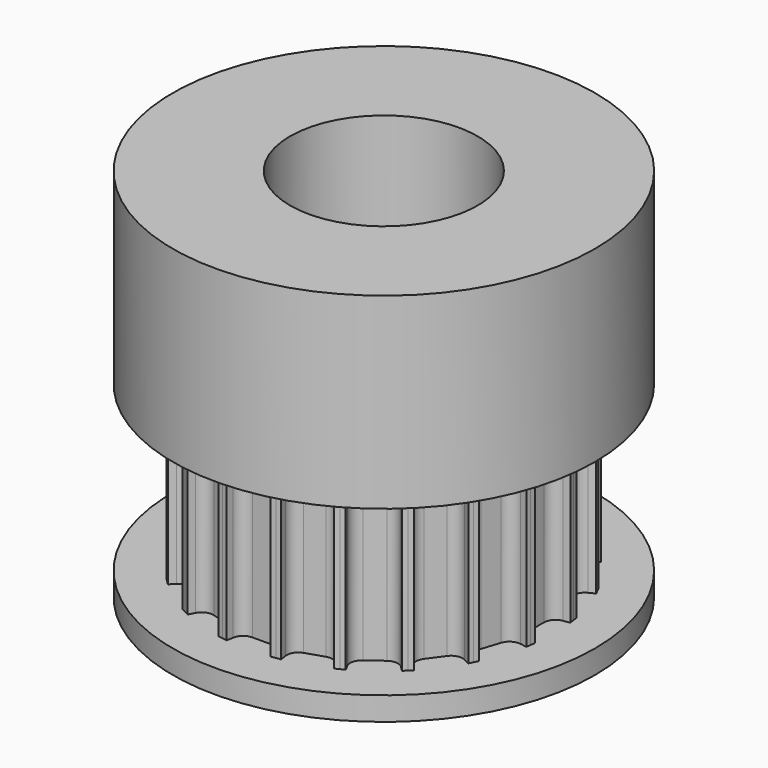
from build123d import *

# Parameters (mm, degrees)
F1_DEPTH = 3.5
F2_COUNT = 20
F3_R     = 9
F4_DEPTH = 1
F5_R     = 9
F6_DEPTH = 8
F8_D     = 8


with BuildPart() as f1:
    # F0 (on Top) → F1 (new body, symmetric)
    with BuildSketch(Plane.XY):
        with BuildLine():
            Line((-1.1357142162, 7.1706173527), (0, 0))
            Line((0, 0), (1.1357142162, 7.1706173527))
            Line((1.1357142162, 7.1706173527), (0.9381765481, 7.2019042457))
            Line((0.9381765481, 7.2019042457), (0.9377455173, 7.1991828248))
            Line((0.9377455173, 7.1991828248), (0.8938096645, 6.9217827675))
            ThreePointArc((0.8938096645, 6.9217827675), (0.7246895184, 6.6197970172), (0.3999654942, 6.5))
            Line((0.3999654942, 6.5), (0, 6.5))
            Line((0, 6.5), (-0.3999654942, 6.5))
            ThreePointArc((-0.3999654942, 6.5), (-0.7246895184, 6.6197970172), (-0.8938096645, 6.9217827675))
            Line((-0.8938096645, 6.9217827675), (-0.9381765481, 7.2019042457))
            Line((-0.9381765481, 7.2019042457), (-1.1357142162, 7.1706173527))
        make_face()
    extrude(amount=F1_DEPTH, both=True)

    # F2: F1 ×20 about axis
    f2_axis = Axis((0, 0, 0), (0, 0, -1))


with BuildPart() as f1_1:
    add(f1.part)
    for i in range(1, F2_COUNT):
        add(f1.part.rotate(f2_axis, i * 360 / F2_COUNT))

    # F3 (on face) → F4 (join)
    with BuildSketch(Plane(origin=(0, 0, -3.5), x_dir=(1, 0, 0), z_dir=(0, 0, -1))):
        Circle(F3_R)
        with BuildLine():
            Line((-0.9381765481, -7.2019042457), (-1.3332518843, -7.1393304597))
            Line((-1.3332518843, -7.1393304597), (-1.2888850008, -6.8592089815))
            ThreePointArc((-1.2888850008, -6.8592089815), (-1.3564090889, -6.5197424666), (-1.6282206739, -6.3054634908))
            Line((-1.6282206739, -6.3054634908), (-2.389000253, -6.058271221))
            ThreePointArc((-2.389000253, -6.058271221), (-2.7348504664, -6.0718597129), (-2.9890120123, -6.3068042293))
            Line((-2.9890120123, -6.3068042293), (-3.1177697233, -6.5595054656))
            Line((-3.1177697233, -6.5595054656), (-3.4741723329, -6.3779092657))
            Line((-3.4741723329, -6.3779092657), (-3.345414622, -6.1252080294))
            ThreePointArc((-3.345414622, -6.1252080294), (-3.3047329239, -5.7814900976), (-3.4970252579, -5.4937042824))
            Line((-3.4970252579, -5.4937042824), (-4.1441830219, -5.0235166445))
            ThreePointArc((-4.1441830219, -5.0235166445), (-4.4773051959, -4.9295664748), (-4.7916290386, -5.0744717511))
            Line((-4.7916290386, -5.0744717511), (-4.9921738752, -5.2750165877))
            Line((-4.9921738752, -5.2750165877), (-5.2750165877, -4.9921738752))
            Line((-5.2750165877, -4.9921738752), (-5.0744717511, -4.7916290386))
            ThreePointArc((-5.0744717511, -4.7916290386), (-4.9295664748, -4.4773051959), (-5.0235166445, -4.1441830219))
            Line((-5.0235166445, -4.1441830219), (-5.4937042824, -3.4970252579))
            ThreePointArc((-5.4937042824, -3.4970252579), (-5.7814900976, -3.3047329239), (-6.1252080294, -3.345414622))
            Line((-6.1252080294, -3.345414622), (-6.3779092657, -3.4741723329))
            Line((-6.3779092657, -3.4741723329), (-6.5595054656, -3.1177697233))
            Line((-6.5595054656, -3.1177697233), (-6.3068042293, -2.9890120123))
            ThreePointArc((-6.3068042293, -2.9890120123), (-6.0718597129, -2.7348504664), (-6.058271221, -2.389000253))
            Line((-6.058271221, -2.389000253), (-6.3054634908, -1.6282206739))
            ThreePointArc((-6.3054634908, -1.6282206739), (-6.5197424666, -1.3564090889), (-6.8592089815, -1.2888850008))
            Line((-6.8592089815, -1.2888850008), (-7.1393304597, -1.3332518843))
            Line((-7.1393304597, -1.3332518843), (-7.2019042457, -0.9381765481))
            Line((-7.2019042457, -0.9381765481), (-6.9217827675, -0.8938096645))
            ThreePointArc((-6.9217827675, -0.8938096645), (-6.6197970172, -0.7246895184), (-6.5, -0.3999654942))
            Line((-6.5, -0.3999654942), (-6.5, 0.3999654942))
            ThreePointArc((-6.5, 0.3999654942), (-6.6197970172, 0.7246895184), (-6.9217827675, 0.8938096645))
            Line((-6.9217827675, 0.8938096645), (-7.2019042457, 0.9381765481))
            Line((-7.2019042457, 0.9381765481), (-7.1393304597, 1.3332518843))
            Line((-7.1393304597, 1.3332518843), (-6.8592089815, 1.2888850008))
            ThreePointArc((-6.8592089815, 1.2888850008), (-6.5197424666, 1.3564090889), (-6.3054634908, 1.6282206739))
            Line((-6.3054634908, 1.6282206739), (-6.058271221, 2.389000253))
            ThreePointArc((-6.058271221, 2.389000253), (-6.0718597129, 2.7348504664), (-6.3068042293, 2.9890120123))
            Line((-6.3068042293, 2.9890120123), (-6.5595054656, 3.1177697233))
            Line((-6.5595054656, 3.1177697233), (-6.3779092657, 3.4741723329))
            Line((-6.3779092657, 3.4741723329), (-6.1252080294, 3.345414622))
            ThreePointArc((-6.1252080294, 3.345414622), (-5.7814900976, 3.3047329239), (-5.4937042824, 3.4970252579))
            Line((-5.4937042824, 3.4970252579), (-5.0235166445, 4.1441830219))
            ThreePointArc((-5.0235166445, 4.1441830219), (-4.9295664748, 4.4773051959), (-5.0744717511, 4.7916290386))
            Line((-5.0744717511, 4.7916290386), (-5.2750165877, 4.9921738752))
            Line((-5.2750165877, 4.9921738752), (-4.9921738752, 5.2750165877))
            Line((-4.9921738752, 5.2750165877), (-4.7916290386, 5.0744717511))
            ThreePointArc((-4.7916290386, 5.0744717511), (-4.4773051959, 4.9295664748), (-4.1441830219, 5.0235166445))
            Line((-4.1441830219, 5.0235166445), (-3.4970252579, 5.4937042824))
            ThreePointArc((-3.4970252579, 5.4937042824), (-3.3047329239, 5.7814900976), (-3.345414622, 6.1252080294))
            Line((-3.345414622, 6.1252080294), (-3.4741723329, 6.3779092657))
            Line((-3.4741723329, 6.3779092657), (-3.1177697233, 6.5595054656))
            Line((-3.1177697233, 6.5595054656), (-2.9890120123, 6.3068042293))
            ThreePointArc((-2.9890120123, 6.3068042293), (-2.7348504664, 6.0718597129), (-2.389000253, 6.058271221))
            Line((-2.389000253, 6.058271221), (-1.6282206739, 6.3054634908))
            ThreePointArc((-1.6282206739, 6.3054634908), (-1.3564090889, 6.5197424666), (-1.2888850008, 6.8592089815))
            Line((-1.2888850008, 6.8592089815), (-1.3332518843, 7.1393304597))
            Line((-1.3332518843, 7.1393304597), (-0.9381765481, 7.2019042457))
            Line((-0.9381765481, 7.2019042457), (-0.8938096645, 6.9217827675))
            ThreePointArc((-0.8938096645, 6.9217827675), (-0.7246895184, 6.6197970172), (-0.3999654942, 6.5))
            Line((-0.3999654942, 6.5), (0.3999654942, 6.5))
            ThreePointArc((0.3999654942, 6.5), (0.7246895184, 6.6197970172), (0.8938096645, 6.9217827675))
            Line((0.8938096645, 6.9217827675), (0.9381765481, 7.2019042457))
            Line((0.9381765481, 7.2019042457), (1.3332518843, 7.1393304597))
            Line((1.3332518843, 7.1393304597), (1.2888850008, 6.8592089815))
            ThreePointArc((1.2888850008, 6.8592089815), (1.3564090889, 6.5197424666), (1.6282206739, 6.3054634908))
            Line((1.6282206739, 6.3054634908), (2.389000253, 6.058271221))
            ThreePointArc((2.389000253, 6.058271221), (2.7348504664, 6.0718597129), (2.9890120123, 6.3068042293))
            Line((2.9890120123, 6.3068042293), (3.1177697233, 6.5595054656))
            Line((3.1177697233, 6.5595054656), (3.4741723329, 6.3779092657))
            Line((3.4741723329, 6.3779092657), (3.345414622, 6.1252080294))
            ThreePointArc((3.345414622, 6.1252080294), (3.3047329239, 5.7814900976), (3.4970252579, 5.4937042824))
            Line((3.4970252579, 5.4937042824), (4.1441830219, 5.0235166445))
            ThreePointArc((4.1441830219, 5.0235166445), (4.4773051959, 4.9295664748), (4.7916290386, 5.0744717511))
            Line((4.7916290386, 5.0744717511), (4.9921738752, 5.2750165877))
            Line((4.9921738752, 5.2750165877), (5.2750165877, 4.9921738752))
            Line((5.2750165877, 4.9921738752), (5.0744717511, 4.7916290386))
            ThreePointArc((5.0744717511, 4.7916290386), (4.9295664748, 4.4773051959), (5.0235166445, 4.1441830219))
            Line((5.0235166445, 4.1441830219), (5.4937042824, 3.4970252579))
            ThreePointArc((5.4937042824, 3.4970252579), (5.7814900976, 3.3047329239), (6.1252080294, 3.345414622))
            Line((6.1252080294, 3.345414622), (6.3779092657, 3.4741723329))
            Line((6.3779092657, 3.4741723329), (6.5595054656, 3.1177697233))
            Line((6.5595054656, 3.1177697233), (6.3068042293, 2.9890120123))
            ThreePointArc((6.3068042293, 2.9890120123), (6.0718597129, 2.7348504664), (6.058271221, 2.389000253))
            Line((6.058271221, 2.389000253), (6.3054634908, 1.6282206739))
            ThreePointArc((6.3054634908, 1.6282206739), (6.5197424666, 1.3564090889), (6.8592089815, 1.2888850008))
            Line((6.8592089815, 1.2888850008), (7.1393304597, 1.3332518843))
            Line((7.1393304597, 1.3332518843), (7.2019042457, 0.9381765481))
            Line((7.2019042457, 0.9381765481), (6.9217827675, 0.8938096645))
            ThreePointArc((6.9217827675, 0.8938096645), (6.6197970172, 0.7246895184), (6.5, 0.3999654942))
            Line((6.5, 0.3999654942), (6.5, -0.3999654942))
            ThreePointArc((6.5, -0.3999654942), (6.6197970172, -0.7246895184), (6.9217827675, -0.8938096645))
            Line((6.9217827675, -0.8938096645), (7.2019042457, -0.9381765481))
            Line((7.2019042457, -0.9381765481), (7.1393304597, -1.3332518843))
            Line((7.1393304597, -1.3332518843), (6.8592089815, -1.2888850008))
            ThreePointArc((6.8592089815, -1.2888850008), (6.5197424666, -1.3564090889), (6.3054634908, -1.6282206739))
            Line((6.3054634908, -1.6282206739), (6.058271221, -2.389000253))
            ThreePointArc((6.058271221, -2.389000253), (6.0718597129, -2.7348504664), (6.3068042293, -2.9890120123))
            Line((6.3068042293, -2.9890120123), (6.5595054656, -3.1177697233))
            Line((6.5595054656, -3.1177697233), (6.3779092657, -3.4741723329))
            Line((6.3779092657, -3.4741723329), (6.1252080294, -3.345414622))
            ThreePointArc((6.1252080294, -3.345414622), (5.7814900976, -3.3047329239), (5.4937042824, -3.4970252579))
            Line((5.4937042824, -3.4970252579), (5.0235166445, -4.1441830219))
            ThreePointArc((5.0235166445, -4.1441830219), (4.9295664748, -4.4773051959), (5.0744717511, -4.7916290386))
            Line((5.0744717511, -4.7916290386), (5.2750165877, -4.9921738752))
            Line((5.2750165877, -4.9921738752), (4.9921738752, -5.2750165877))
            Line((4.9921738752, -5.2750165877), (4.7916290386, -5.0744717511))
            ThreePointArc((4.7916290386, -5.0744717511), (4.4773051959, -4.9295664748), (4.1441830219, -5.0235166445))
            Line((4.1441830219, -5.0235166445), (3.4970252579, -5.4937042824))
            ThreePointArc((3.4970252579, -5.4937042824), (3.3047329239, -5.7814900976), (3.345414622, -6.1252080294))
            Line((3.345414622, -6.1252080294), (3.4741723329, -6.3779092657))
            Line((3.4741723329, -6.3779092657), (3.1177697233, -6.5595054656))
            Line((3.1177697233, -6.5595054656), (2.9890120123, -6.3068042293))
            ThreePointArc((2.9890120123, -6.3068042293), (2.7348504664, -6.0718597129), (2.389000253, -6.058271221))
            Line((2.389000253, -6.058271221), (1.6282206739, -6.3054634908))
            ThreePointArc((1.6282206739, -6.3054634908), (1.3564090889, -6.5197424666), (1.2888850008, -6.8592089815))
            Line((1.2888850008, -6.8592089815), (1.3332518843, -7.1393304597))
            Line((1.3332518843, -7.1393304597), (0.9381765481, -7.2019042457))
            Line((0.9381765481, -7.2019042457), (0.8938096645, -6.9217827675))
            ThreePointArc((0.8938096645, -6.9217827675), (0.7246895184, -6.6197970172), (0.3999654942, -6.5))
            Line((0.3999654942, -6.5), (-0.3999654942, -6.5))
            ThreePointArc((-0.3999654942, -6.5), (-0.7246895184, -6.6197970172), (-0.8938096645, -6.9217827675))
            Line((-0.8938096645, -6.9217827675), (-0.9381765481, -7.2019042457))
        make_face(mode=Mode.SUBTRACT)
        with BuildLine():
            Line((-1.2888850008, -6.8592089815), (-1.3332518843, -7.1393304597))
            Line((-1.3332518843, -7.1393304597), (-0.9381765481, -7.2019042457))
            Line((-0.9381765481, -7.2019042457), (-0.8938096645, -6.9217827675))
            ThreePointArc((-0.8938096645, -6.9217827675), (-0.7246895184, -6.6197970172), (-0.3999654942, -6.5))
            Line((-0.3999654942, -6.5), (0.3999654942, -6.5))
            ThreePointArc((0.3999654942, -6.5), (0.7246895184, -6.6197970172), (0.8938096645, -6.9217827675))
            Line((0.8938096645, -6.9217827675), (0.9381765481, -7.2019042457))
            Line((0.9381765481, -7.2019042457), (1.3332518843, -7.1393304597))
            Line((1.3332518843, -7.1393304597), (1.2888850008, -6.8592089815))
            ThreePointArc((1.2888850008, -6.8592089815), (1.3564090889, -6.5197424666), (1.6282206739, -6.3054634908))
            Line((1.6282206739, -6.3054634908), (2.389000253, -6.058271221))
            ThreePointArc((2.389000253, -6.058271221), (2.7348504664, -6.0718597129), (2.9890120123, -6.3068042293))
            Line((2.9890120123, -6.3068042293), (3.1177697233, -6.5595054656))
            Line((3.1177697233, -6.5595054656), (3.4741723329, -6.3779092657))
            Line((3.4741723329, -6.3779092657), (3.345414622, -6.1252080294))
            ThreePointArc((3.345414622, -6.1252080294), (3.3047329239, -5.7814900976), (3.4970252579, -5.4937042824))
            Line((3.4970252579, -5.4937042824), (4.1441830219, -5.0235166445))
            ThreePointArc((4.1441830219, -5.0235166445), (4.4773051959, -4.9295664748), (4.7916290386, -5.0744717511))
            Line((4.7916290386, -5.0744717511), (4.9921738752, -5.2750165877))
            Line((4.9921738752, -5.2750165877), (5.2750165877, -4.9921738752))
            Line((5.2750165877, -4.9921738752), (5.0744717511, -4.7916290386))
            ThreePointArc((5.0744717511, -4.7916290386), (4.9295664748, -4.4773051959), (5.0235166445, -4.1441830219))
            Line((5.0235166445, -4.1441830219), (5.4937042824, -3.4970252579))
            ThreePointArc((5.4937042824, -3.4970252579), (5.7814900976, -3.3047329239), (6.1252080294, -3.345414622))
            Line((6.1252080294, -3.345414622), (6.3779092657, -3.4741723329))
            Line((6.3779092657, -3.4741723329), (6.5595054656, -3.1177697233))
            Line((6.5595054656, -3.1177697233), (6.3068042293, -2.9890120123))
            ThreePointArc((6.3068042293, -2.9890120123), (6.0718597129, -2.7348504664), (6.058271221, -2.389000253))
            Line((6.058271221, -2.389000253), (6.3054634908, -1.6282206739))
            ThreePointArc((6.3054634908, -1.6282206739), (6.5197424666, -1.3564090889), (6.8592089815, -1.2888850008))
            Line((6.8592089815, -1.2888850008), (7.1393304597, -1.3332518843))
            Line((7.1393304597, -1.3332518843), (7.2019042457, -0.9381765481))
            Line((7.2019042457, -0.9381765481), (6.9217827675, -0.8938096645))
            ThreePointArc((6.9217827675, -0.8938096645), (6.6197970172, -0.7246895184), (6.5, -0.3999654942))
            Line((6.5, -0.3999654942), (6.5, 0.3999654942))
            ThreePointArc((6.5, 0.3999654942), (6.6197970172, 0.7246895184), (6.9217827675, 0.8938096645))
            Line((6.9217827675, 0.8938096645), (7.2019042457, 0.9381765481))
            Line((7.2019042457, 0.9381765481), (7.1393304597, 1.3332518843))
            Line((7.1393304597, 1.3332518843), (6.8592089815, 1.2888850008))
            ThreePointArc((6.8592089815, 1.2888850008), (6.5197424666, 1.3564090889), (6.3054634908, 1.6282206739))
            Line((6.3054634908, 1.6282206739), (6.058271221, 2.389000253))
            ThreePointArc((6.058271221, 2.389000253), (6.0718597129, 2.7348504664), (6.3068042293, 2.9890120123))
            Line((6.3068042293, 2.9890120123), (6.5595054656, 3.1177697233))
            Line((6.5595054656, 3.1177697233), (6.3779092657, 3.4741723329))
            Line((6.3779092657, 3.4741723329), (6.1252080294, 3.345414622))
            ThreePointArc((6.1252080294, 3.345414622), (5.7814900976, 3.3047329239), (5.4937042824, 3.4970252579))
            Line((5.4937042824, 3.4970252579), (5.0235166445, 4.1441830219))
            ThreePointArc((5.0235166445, 4.1441830219), (4.9295664748, 4.4773051959), (5.0744717511, 4.7916290386))
            Line((5.0744717511, 4.7916290386), (5.2750165877, 4.9921738752))
            Line((5.2750165877, 4.9921738752), (4.9921738752, 5.2750165877))
            Line((4.9921738752, 5.2750165877), (4.7916290386, 5.0744717511))
            ThreePointArc((4.7916290386, 5.0744717511), (4.4773051959, 4.9295664748), (4.1441830219, 5.0235166445))
            Line((4.1441830219, 5.0235166445), (3.4970252579, 5.4937042824))
            ThreePointArc((3.4970252579, 5.4937042824), (3.3047329239, 5.7814900976), (3.345414622, 6.1252080294))
            Line((3.345414622, 6.1252080294), (3.4741723329, 6.3779092657))
            Line((3.4741723329, 6.3779092657), (3.1177697233, 6.5595054656))
            Line((3.1177697233, 6.5595054656), (2.9890120123, 6.3068042293))
            ThreePointArc((2.9890120123, 6.3068042293), (2.7348504664, 6.0718597129), (2.389000253, 6.058271221))
            Line((2.389000253, 6.058271221), (1.6282206739, 6.3054634908))
            ThreePointArc((1.6282206739, 6.3054634908), (1.3564090889, 6.5197424666), (1.2888850008, 6.8592089815))
            Line((1.2888850008, 6.8592089815), (1.3332518843, 7.1393304597))
            Line((1.3332518843, 7.1393304597), (0.9381765481, 7.2019042457))
            Line((0.9381765481, 7.2019042457), (0.8938096645, 6.9217827675))
            ThreePointArc((0.8938096645, 6.9217827675), (0.7246895184, 6.6197970172), (0.3999654942, 6.5))
            Line((0.3999654942, 6.5), (-0.3999654942, 6.5))
            ThreePointArc((-0.3999654942, 6.5), (-0.7246895184, 6.6197970172), (-0.8938096645, 6.9217827675))
            Line((-0.8938096645, 6.9217827675), (-0.9381765481, 7.2019042457))
            Line((-0.9381765481, 7.2019042457), (-1.3332518843, 7.1393304597))
            Line((-1.3332518843, 7.1393304597), (-1.2888850008, 6.8592089815))
            ThreePointArc((-1.2888850008, 6.8592089815), (-1.3564090889, 6.5197424666), (-1.6282206739, 6.3054634908))
            Line((-1.6282206739, 6.3054634908), (-2.389000253, 6.058271221))
            ThreePointArc((-2.389000253, 6.058271221), (-2.7348504664, 6.0718597129), (-2.9890120123, 6.3068042293))
            Line((-2.9890120123, 6.3068042293), (-3.1177697233, 6.5595054656))
            Line((-3.1177697233, 6.5595054656), (-3.4741723329, 6.3779092657))
            Line((-3.4741723329, 6.3779092657), (-3.345414622, 6.1252080294))
            ThreePointArc((-3.345414622, 6.1252080294), (-3.3047329239, 5.7814900976), (-3.4970252579, 5.4937042824))
            Line((-3.4970252579, 5.4937042824), (-4.1441830219, 5.0235166445))
            ThreePointArc((-4.1441830219, 5.0235166445), (-4.4773051959, 4.9295664748), (-4.7916290386, 5.0744717511))
            Line((-4.7916290386, 5.0744717511), (-4.9921738752, 5.2750165877))
            Line((-4.9921738752, 5.2750165877), (-5.2750165877, 4.9921738752))
            Line((-5.2750165877, 4.9921738752), (-5.0744717511, 4.7916290386))
            ThreePointArc((-5.0744717511, 4.7916290386), (-4.9295664748, 4.4773051959), (-5.0235166445, 4.1441830219))
            Line((-5.0235166445, 4.1441830219), (-5.4937042824, 3.4970252579))
            ThreePointArc((-5.4937042824, 3.4970252579), (-5.7814900976, 3.3047329239), (-6.1252080294, 3.345414622))
            Line((-6.1252080294, 3.345414622), (-6.3779092657, 3.4741723329))
            Line((-6.3779092657, 3.4741723329), (-6.5595054656, 3.1177697233))
            Line((-6.5595054656, 3.1177697233), (-6.3068042293, 2.9890120123))
            ThreePointArc((-6.3068042293, 2.9890120123), (-6.0718597129, 2.7348504664), (-6.058271221, 2.389000253))
            Line((-6.058271221, 2.389000253), (-6.3054634908, 1.6282206739))
            ThreePointArc((-6.3054634908, 1.6282206739), (-6.5197424666, 1.3564090889), (-6.8592089815, 1.2888850008))
            Line((-6.8592089815, 1.2888850008), (-7.1393304597, 1.3332518843))
            Line((-7.1393304597, 1.3332518843), (-7.2019042457, 0.9381765481))
            Line((-7.2019042457, 0.9381765481), (-6.9217827675, 0.8938096645))
            ThreePointArc((-6.9217827675, 0.8938096645), (-6.6197970172, 0.7246895184), (-6.5, 0.3999654942))
            Line((-6.5, 0.3999654942), (-6.5, -0.3999654942))
            ThreePointArc((-6.5, -0.3999654942), (-6.6197970172, -0.7246895184), (-6.9217827675, -0.8938096645))
            Line((-6.9217827675, -0.8938096645), (-7.2019042457, -0.9381765481))
            Line((-7.2019042457, -0.9381765481), (-7.1393304597, -1.3332518843))
            Line((-7.1393304597, -1.3332518843), (-6.8592089815, -1.2888850008))
            ThreePointArc((-6.8592089815, -1.2888850008), (-6.5197424666, -1.3564090889), (-6.3054634908, -1.6282206739))
            Line((-6.3054634908, -1.6282206739), (-6.058271221, -2.389000253))
            ThreePointArc((-6.058271221, -2.389000253), (-6.0718597129, -2.7348504664), (-6.3068042293, -2.9890120123))
            Line((-6.3068042293, -2.9890120123), (-6.5595054656, -3.1177697233))
            Line((-6.5595054656, -3.1177697233), (-6.3779092657, -3.4741723329))
            Line((-6.3779092657, -3.4741723329), (-6.1252080294, -3.345414622))
            ThreePointArc((-6.1252080294, -3.345414622), (-5.7814900976, -3.3047329239), (-5.4937042824, -3.4970252579))
            Line((-5.4937042824, -3.4970252579), (-5.0235166445, -4.1441830219))
            ThreePointArc((-5.0235166445, -4.1441830219), (-4.9295664748, -4.4773051959), (-5.0744717511, -4.7916290386))
            Line((-5.0744717511, -4.7916290386), (-5.2750165877, -4.9921738752))
            Line((-5.2750165877, -4.9921738752), (-4.9921738752, -5.2750165877))
            Line((-4.9921738752, -5.2750165877), (-4.7916290386, -5.0744717511))
            ThreePointArc((-4.7916290386, -5.0744717511), (-4.4773051959, -4.9295664748), (-4.1441830219, -5.0235166445))
            Line((-4.1441830219, -5.0235166445), (-3.4970252579, -5.4937042824))
            ThreePointArc((-3.4970252579, -5.4937042824), (-3.3047329239, -5.7814900976), (-3.345414622, -6.1252080294))
            Line((-3.345414622, -6.1252080294), (-3.4741723329, -6.3779092657))
            Line((-3.4741723329, -6.3779092657), (-3.1177697233, -6.5595054656))
            Line((-3.1177697233, -6.5595054656), (-2.9890120123, -6.3068042293))
            ThreePointArc((-2.9890120123, -6.3068042293), (-2.7348504664, -6.0718597129), (-2.389000253, -6.058271221))
            Line((-2.389000253, -6.058271221), (-1.6282206739, -6.3054634908))
            ThreePointArc((-1.6282206739, -6.3054634908), (-1.3564090889, -6.5197424666), (-1.2888850008, -6.8592089815))
        make_face()
    extrude(amount=F4_DEPTH)

    # F5 (on face) → F6 (join)
    with BuildSketch(Plane.XY.offset(3.5)):
        Circle(F5_R)
        with BuildLine():
            Line((-1.3332518843, 7.1393304597), (-0.9381765481, 7.2019042457))
            Line((-0.9381765481, 7.2019042457), (-0.8938096645, 6.9217827675))
            ThreePointArc((-0.8938096645, 6.9217827675), (-0.7246895184, 6.6197970172), (-0.3999654942, 6.5))
            Line((-0.3999654942, 6.5), (0.3999654942, 6.5))
            ThreePointArc((0.3999654942, 6.5), (0.7246895184, 6.6197970172), (0.8938096645, 6.9217827675))
            Line((0.8938096645, 6.9217827675), (0.9381765481, 7.2019042457))
            Line((0.9381765481, 7.2019042457), (1.3332518843, 7.1393304597))
            Line((1.3332518843, 7.1393304597), (1.2888850008, 6.8592089815))
            ThreePointArc((1.2888850008, 6.8592089815), (1.3564090889, 6.5197424666), (1.6282206739, 6.3054634908))
            Line((1.6282206739, 6.3054634908), (2.389000253, 6.058271221))
            ThreePointArc((2.389000253, 6.058271221), (2.7348504664, 6.0718597129), (2.9890120123, 6.3068042293))
            Line((2.9890120123, 6.3068042293), (3.1177697233, 6.5595054656))
            Line((3.1177697233, 6.5595054656), (3.4741723329, 6.3779092657))
            Line((3.4741723329, 6.3779092657), (3.345414622, 6.1252080294))
            ThreePointArc((3.345414622, 6.1252080294), (3.3047329239, 5.7814900976), (3.4970252579, 5.4937042824))
            Line((3.4970252579, 5.4937042824), (4.1441830219, 5.0235166445))
            ThreePointArc((4.1441830219, 5.0235166445), (4.4773051959, 4.9295664748), (4.7916290386, 5.0744717511))
            Line((4.7916290386, 5.0744717511), (4.9921738752, 5.2750165877))
            Line((4.9921738752, 5.2750165877), (5.2750165877, 4.9921738752))
            Line((5.2750165877, 4.9921738752), (5.0744717511, 4.7916290386))
            ThreePointArc((5.0744717511, 4.7916290386), (4.9295664748, 4.4773051959), (5.0235166445, 4.1441830219))
            Line((5.0235166445, 4.1441830219), (5.4937042824, 3.4970252579))
            ThreePointArc((5.4937042824, 3.4970252579), (5.7814900976, 3.3047329239), (6.1252080294, 3.345414622))
            Line((6.1252080294, 3.345414622), (6.3779092657, 3.4741723329))
            Line((6.3779092657, 3.4741723329), (6.5595054656, 3.1177697233))
            Line((6.5595054656, 3.1177697233), (6.3068042293, 2.9890120123))
            ThreePointArc((6.3068042293, 2.9890120123), (6.0718597129, 2.7348504664), (6.058271221, 2.389000253))
            Line((6.058271221, 2.389000253), (6.3054634908, 1.6282206739))
            ThreePointArc((6.3054634908, 1.6282206739), (6.5197424666, 1.3564090889), (6.8592089815, 1.2888850008))
            Line((6.8592089815, 1.2888850008), (7.1393304597, 1.3332518843))
            Line((7.1393304597, 1.3332518843), (7.2019042457, 0.9381765481))
            Line((7.2019042457, 0.9381765481), (6.9217827675, 0.8938096645))
            ThreePointArc((6.9217827675, 0.8938096645), (6.6197970172, 0.7246895184), (6.5, 0.3999654942))
            Line((6.5, 0.3999654942), (6.5, -0.3999654942))
            ThreePointArc((6.5, -0.3999654942), (6.6197970172, -0.7246895184), (6.9217827675, -0.8938096645))
            Line((6.9217827675, -0.8938096645), (7.2019042457, -0.9381765481))
            Line((7.2019042457, -0.9381765481), (7.1393304597, -1.3332518843))
            Line((7.1393304597, -1.3332518843), (6.8592089815, -1.2888850008))
            ThreePointArc((6.8592089815, -1.2888850008), (6.5197424666, -1.3564090889), (6.3054634908, -1.6282206739))
            Line((6.3054634908, -1.6282206739), (6.058271221, -2.389000253))
            ThreePointArc((6.058271221, -2.389000253), (6.0718597129, -2.7348504664), (6.3068042293, -2.9890120123))
            Line((6.3068042293, -2.9890120123), (6.5595054656, -3.1177697233))
            Line((6.5595054656, -3.1177697233), (6.3779092657, -3.4741723329))
            Line((6.3779092657, -3.4741723329), (6.1252080294, -3.345414622))
            ThreePointArc((6.1252080294, -3.345414622), (5.7814900976, -3.3047329239), (5.4937042824, -3.4970252579))
            Line((5.4937042824, -3.4970252579), (5.0235166445, -4.1441830219))
            ThreePointArc((5.0235166445, -4.1441830219), (4.9295664748, -4.4773051959), (5.0744717511, -4.7916290386))
            Line((5.0744717511, -4.7916290386), (5.2750165877, -4.9921738752))
            Line((5.2750165877, -4.9921738752), (4.9921738752, -5.2750165877))
            Line((4.9921738752, -5.2750165877), (4.7916290386, -5.0744717511))
            ThreePointArc((4.7916290386, -5.0744717511), (4.4773051959, -4.9295664748), (4.1441830219, -5.0235166445))
            Line((4.1441830219, -5.0235166445), (3.4970252579, -5.4937042824))
            ThreePointArc((3.4970252579, -5.4937042824), (3.3047329239, -5.7814900976), (3.345414622, -6.1252080294))
            Line((3.345414622, -6.1252080294), (3.4741723329, -6.3779092657))
            Line((3.4741723329, -6.3779092657), (3.1177697233, -6.5595054656))
            Line((3.1177697233, -6.5595054656), (2.9890120123, -6.3068042293))
            ThreePointArc((2.9890120123, -6.3068042293), (2.7348504664, -6.0718597129), (2.389000253, -6.058271221))
            Line((2.389000253, -6.058271221), (1.6282206739, -6.3054634908))
            ThreePointArc((1.6282206739, -6.3054634908), (1.3564090889, -6.5197424666), (1.2888850008, -6.8592089815))
            Line((1.2888850008, -6.8592089815), (1.3332518843, -7.1393304597))
            Line((1.3332518843, -7.1393304597), (0.9381765481, -7.2019042457))
            Line((0.9381765481, -7.2019042457), (0.8938096645, -6.9217827675))
            ThreePointArc((0.8938096645, -6.9217827675), (0.7246895184, -6.6197970172), (0.3999654942, -6.5))
            Line((0.3999654942, -6.5), (-0.3999654942, -6.5))
            ThreePointArc((-0.3999654942, -6.5), (-0.7246895184, -6.6197970172), (-0.8938096645, -6.9217827675))
            Line((-0.8938096645, -6.9217827675), (-0.9381765481, -7.2019042457))
            Line((-0.9381765481, -7.2019042457), (-1.3332518843, -7.1393304597))
            Line((-1.3332518843, -7.1393304597), (-1.2888850008, -6.8592089815))
            ThreePointArc((-1.2888850008, -6.8592089815), (-1.3564090889, -6.5197424666), (-1.6282206739, -6.3054634908))
            Line((-1.6282206739, -6.3054634908), (-2.389000253, -6.058271221))
            ThreePointArc((-2.389000253, -6.058271221), (-2.7348504664, -6.0718597129), (-2.9890120123, -6.3068042293))
            Line((-2.9890120123, -6.3068042293), (-3.1177697233, -6.5595054656))
            Line((-3.1177697233, -6.5595054656), (-3.4741723329, -6.3779092657))
            Line((-3.4741723329, -6.3779092657), (-3.345414622, -6.1252080294))
            ThreePointArc((-3.345414622, -6.1252080294), (-3.3047329239, -5.7814900976), (-3.4970252579, -5.4937042824))
            Line((-3.4970252579, -5.4937042824), (-4.1441830219, -5.0235166445))
            ThreePointArc((-4.1441830219, -5.0235166445), (-4.4773051959, -4.9295664748), (-4.7916290386, -5.0744717511))
            Line((-4.7916290386, -5.0744717511), (-4.9921738752, -5.2750165877))
            Line((-4.9921738752, -5.2750165877), (-5.2750165877, -4.9921738752))
            Line((-5.2750165877, -4.9921738752), (-5.0744717511, -4.7916290386))
            ThreePointArc((-5.0744717511, -4.7916290386), (-4.9295664748, -4.4773051959), (-5.0235166445, -4.1441830219))
            Line((-5.0235166445, -4.1441830219), (-5.4937042824, -3.4970252579))
            ThreePointArc((-5.4937042824, -3.4970252579), (-5.7814900976, -3.3047329239), (-6.1252080294, -3.345414622))
            Line((-6.1252080294, -3.345414622), (-6.3779092657, -3.4741723329))
            Line((-6.3779092657, -3.4741723329), (-6.5595054656, -3.1177697233))
            Line((-6.5595054656, -3.1177697233), (-6.3068042293, -2.9890120123))
            ThreePointArc((-6.3068042293, -2.9890120123), (-6.0718597129, -2.7348504664), (-6.058271221, -2.389000253))
            Line((-6.058271221, -2.389000253), (-6.3054634908, -1.6282206739))
            ThreePointArc((-6.3054634908, -1.6282206739), (-6.5197424666, -1.3564090889), (-6.8592089815, -1.2888850008))
            Line((-6.8592089815, -1.2888850008), (-7.1393304597, -1.3332518843))
            Line((-7.1393304597, -1.3332518843), (-7.2019042457, -0.9381765481))
            Line((-7.2019042457, -0.9381765481), (-6.9217827675, -0.8938096645))
            ThreePointArc((-6.9217827675, -0.8938096645), (-6.6197970172, -0.7246895184), (-6.5, -0.3999654942))
            Line((-6.5, -0.3999654942), (-6.5, 0.3999654942))
            ThreePointArc((-6.5, 0.3999654942), (-6.6197970172, 0.7246895184), (-6.9217827675, 0.8938096645))
            Line((-6.9217827675, 0.8938096645), (-7.2019042457, 0.9381765481))
            Line((-7.2019042457, 0.9381765481), (-7.1393304597, 1.3332518843))
            Line((-7.1393304597, 1.3332518843), (-6.8592089815, 1.2888850008))
            ThreePointArc((-6.8592089815, 1.2888850008), (-6.5197424666, 1.3564090889), (-6.3054634908, 1.6282206739))
            Line((-6.3054634908, 1.6282206739), (-6.058271221, 2.389000253))
            ThreePointArc((-6.058271221, 2.389000253), (-6.0718597129, 2.7348504664), (-6.3068042293, 2.9890120123))
            Line((-6.3068042293, 2.9890120123), (-6.5595054656, 3.1177697233))
            Line((-6.5595054656, 3.1177697233), (-6.3779092657, 3.4741723329))
            Line((-6.3779092657, 3.4741723329), (-6.1252080294, 3.345414622))
            ThreePointArc((-6.1252080294, 3.345414622), (-5.7814900976, 3.3047329239), (-5.4937042824, 3.4970252579))
            Line((-5.4937042824, 3.4970252579), (-5.0235166445, 4.1441830219))
            ThreePointArc((-5.0235166445, 4.1441830219), (-4.9295664748, 4.4773051959), (-5.0744717511, 4.7916290386))
            Line((-5.0744717511, 4.7916290386), (-5.2750165877, 4.9921738752))
            Line((-5.2750165877, 4.9921738752), (-4.9921738752, 5.2750165877))
            Line((-4.9921738752, 5.2750165877), (-4.7916290386, 5.0744717511))
            ThreePointArc((-4.7916290386, 5.0744717511), (-4.4773051959, 4.9295664748), (-4.1441830219, 5.0235166445))
            Line((-4.1441830219, 5.0235166445), (-3.4970252579, 5.4937042824))
            ThreePointArc((-3.4970252579, 5.4937042824), (-3.3047329239, 5.7814900976), (-3.345414622, 6.1252080294))
            Line((-3.345414622, 6.1252080294), (-3.4741723329, 6.3779092657))
            Line((-3.4741723329, 6.3779092657), (-3.1177697233, 6.5595054656))
            Line((-3.1177697233, 6.5595054656), (-2.9890120123, 6.3068042293))
            ThreePointArc((-2.9890120123, 6.3068042293), (-2.7348504664, 6.0718597129), (-2.389000253, 6.058271221))
            Line((-2.389000253, 6.058271221), (-1.6282206739, 6.3054634908))
            ThreePointArc((-1.6282206739, 6.3054634908), (-1.3564090889, 6.5197424666), (-1.2888850008, 6.8592089815))
            Line((-1.2888850008, 6.8592089815), (-1.3332518843, 7.1393304597))
        make_face(mode=Mode.SUBTRACT)
        with BuildLine():
            Line((-0.8938096645, 6.9217827675), (-0.9381765481, 7.2019042457))
            Line((-0.9381765481, 7.2019042457), (-1.3332518843, 7.1393304597))
            Line((-1.3332518843, 7.1393304597), (-1.2888850008, 6.8592089815))
            ThreePointArc((-1.2888850008, 6.8592089815), (-1.3564090889, 6.5197424666), (-1.6282206739, 6.3054634908))
            Line((-1.6282206739, 6.3054634908), (-2.389000253, 6.058271221))
            ThreePointArc((-2.389000253, 6.058271221), (-2.7348504664, 6.0718597129), (-2.9890120123, 6.3068042293))
            Line((-2.9890120123, 6.3068042293), (-3.1177697233, 6.5595054656))
            Line((-3.1177697233, 6.5595054656), (-3.4741723329, 6.3779092657))
            Line((-3.4741723329, 6.3779092657), (-3.345414622, 6.1252080294))
            ThreePointArc((-3.345414622, 6.1252080294), (-3.3047329239, 5.7814900976), (-3.4970252579, 5.4937042824))
            Line((-3.4970252579, 5.4937042824), (-4.1441830219, 5.0235166445))
            ThreePointArc((-4.1441830219, 5.0235166445), (-4.4773051959, 4.9295664748), (-4.7916290386, 5.0744717511))
            Line((-4.7916290386, 5.0744717511), (-4.9921738752, 5.2750165877))
            Line((-4.9921738752, 5.2750165877), (-5.2750165877, 4.9921738752))
            Line((-5.2750165877, 4.9921738752), (-5.0744717511, 4.7916290386))
            ThreePointArc((-5.0744717511, 4.7916290386), (-4.9295664748, 4.4773051959), (-5.0235166445, 4.1441830219))
            Line((-5.0235166445, 4.1441830219), (-5.4937042824, 3.4970252579))
            ThreePointArc((-5.4937042824, 3.4970252579), (-5.7814900976, 3.3047329239), (-6.1252080294, 3.345414622))
            Line((-6.1252080294, 3.345414622), (-6.3779092657, 3.4741723329))
            Line((-6.3779092657, 3.4741723329), (-6.5595054656, 3.1177697233))
            Line((-6.5595054656, 3.1177697233), (-6.3068042293, 2.9890120123))
            ThreePointArc((-6.3068042293, 2.9890120123), (-6.0718597129, 2.7348504664), (-6.058271221, 2.389000253))
            Line((-6.058271221, 2.389000253), (-6.3054634908, 1.6282206739))
            ThreePointArc((-6.3054634908, 1.6282206739), (-6.5197424666, 1.3564090889), (-6.8592089815, 1.2888850008))
            Line((-6.8592089815, 1.2888850008), (-7.1393304597, 1.3332518843))
            Line((-7.1393304597, 1.3332518843), (-7.2019042457, 0.9381765481))
            Line((-7.2019042457, 0.9381765481), (-6.9217827675, 0.8938096645))
            ThreePointArc((-6.9217827675, 0.8938096645), (-6.6197970172, 0.7246895184), (-6.5, 0.3999654942))
            Line((-6.5, 0.3999654942), (-6.5, -0.3999654942))
            ThreePointArc((-6.5, -0.3999654942), (-6.6197970172, -0.7246895184), (-6.9217827675, -0.8938096645))
            Line((-6.9217827675, -0.8938096645), (-7.2019042457, -0.9381765481))
            Line((-7.2019042457, -0.9381765481), (-7.1393304597, -1.3332518843))
            Line((-7.1393304597, -1.3332518843), (-6.8592089815, -1.2888850008))
            ThreePointArc((-6.8592089815, -1.2888850008), (-6.5197424666, -1.3564090889), (-6.3054634908, -1.6282206739))
            Line((-6.3054634908, -1.6282206739), (-6.058271221, -2.389000253))
            ThreePointArc((-6.058271221, -2.389000253), (-6.0718597129, -2.7348504664), (-6.3068042293, -2.9890120123))
            Line((-6.3068042293, -2.9890120123), (-6.5595054656, -3.1177697233))
            Line((-6.5595054656, -3.1177697233), (-6.3779092657, -3.4741723329))
            Line((-6.3779092657, -3.4741723329), (-6.1252080294, -3.345414622))
            ThreePointArc((-6.1252080294, -3.345414622), (-5.7814900976, -3.3047329239), (-5.4937042824, -3.4970252579))
            Line((-5.4937042824, -3.4970252579), (-5.0235166445, -4.1441830219))
            ThreePointArc((-5.0235166445, -4.1441830219), (-4.9295664748, -4.4773051959), (-5.0744717511, -4.7916290386))
            Line((-5.0744717511, -4.7916290386), (-5.2750165877, -4.9921738752))
            Line((-5.2750165877, -4.9921738752), (-4.9921738752, -5.2750165877))
            Line((-4.9921738752, -5.2750165877), (-4.7916290386, -5.0744717511))
            ThreePointArc((-4.7916290386, -5.0744717511), (-4.4773051959, -4.9295664748), (-4.1441830219, -5.0235166445))
            Line((-4.1441830219, -5.0235166445), (-3.4970252579, -5.4937042824))
            ThreePointArc((-3.4970252579, -5.4937042824), (-3.3047329239, -5.7814900976), (-3.345414622, -6.1252080294))
            Line((-3.345414622, -6.1252080294), (-3.4741723329, -6.3779092657))
            Line((-3.4741723329, -6.3779092657), (-3.1177697233, -6.5595054656))
            Line((-3.1177697233, -6.5595054656), (-2.9890120123, -6.3068042293))
            ThreePointArc((-2.9890120123, -6.3068042293), (-2.7348504664, -6.0718597129), (-2.389000253, -6.058271221))
            Line((-2.389000253, -6.058271221), (-1.6282206739, -6.3054634908))
            ThreePointArc((-1.6282206739, -6.3054634908), (-1.3564090889, -6.5197424666), (-1.2888850008, -6.8592089815))
            Line((-1.2888850008, -6.8592089815), (-1.3332518843, -7.1393304597))
            Line((-1.3332518843, -7.1393304597), (-0.9381765481, -7.2019042457))
            Line((-0.9381765481, -7.2019042457), (-0.8938096645, -6.9217827675))
            ThreePointArc((-0.8938096645, -6.9217827675), (-0.7246895184, -6.6197970172), (-0.3999654942, -6.5))
            Line((-0.3999654942, -6.5), (0.3999654942, -6.5))
            ThreePointArc((0.3999654942, -6.5), (0.7246895184, -6.6197970172), (0.8938096645, -6.9217827675))
            Line((0.8938096645, -6.9217827675), (0.9381765481, -7.2019042457))
            Line((0.9381765481, -7.2019042457), (1.3332518843, -7.1393304597))
            Line((1.3332518843, -7.1393304597), (1.2888850008, -6.8592089815))
            ThreePointArc((1.2888850008, -6.8592089815), (1.3564090889, -6.5197424666), (1.6282206739, -6.3054634908))
            Line((1.6282206739, -6.3054634908), (2.389000253, -6.058271221))
            ThreePointArc((2.389000253, -6.058271221), (2.7348504664, -6.0718597129), (2.9890120123, -6.3068042293))
            Line((2.9890120123, -6.3068042293), (3.1177697233, -6.5595054656))
            Line((3.1177697233, -6.5595054656), (3.4741723329, -6.3779092657))
            Line((3.4741723329, -6.3779092657), (3.345414622, -6.1252080294))
            ThreePointArc((3.345414622, -6.1252080294), (3.3047329239, -5.7814900976), (3.4970252579, -5.4937042824))
            Line((3.4970252579, -5.4937042824), (4.1441830219, -5.0235166445))
            ThreePointArc((4.1441830219, -5.0235166445), (4.4773051959, -4.9295664748), (4.7916290386, -5.0744717511))
            Line((4.7916290386, -5.0744717511), (4.9921738752, -5.2750165877))
            Line((4.9921738752, -5.2750165877), (5.2750165877, -4.9921738752))
            Line((5.2750165877, -4.9921738752), (5.0744717511, -4.7916290386))
            ThreePointArc((5.0744717511, -4.7916290386), (4.9295664748, -4.4773051959), (5.0235166445, -4.1441830219))
            Line((5.0235166445, -4.1441830219), (5.4937042824, -3.4970252579))
            ThreePointArc((5.4937042824, -3.4970252579), (5.7814900976, -3.3047329239), (6.1252080294, -3.345414622))
            Line((6.1252080294, -3.345414622), (6.3779092657, -3.4741723329))
            Line((6.3779092657, -3.4741723329), (6.5595054656, -3.1177697233))
            Line((6.5595054656, -3.1177697233), (6.3068042293, -2.9890120123))
            ThreePointArc((6.3068042293, -2.9890120123), (6.0718597129, -2.7348504664), (6.058271221, -2.389000253))
            Line((6.058271221, -2.389000253), (6.3054634908, -1.6282206739))
            ThreePointArc((6.3054634908, -1.6282206739), (6.5197424666, -1.3564090889), (6.8592089815, -1.2888850008))
            Line((6.8592089815, -1.2888850008), (7.1393304597, -1.3332518843))
            Line((7.1393304597, -1.3332518843), (7.2019042457, -0.9381765481))
            Line((7.2019042457, -0.9381765481), (6.9217827675, -0.8938096645))
            ThreePointArc((6.9217827675, -0.8938096645), (6.6197970172, -0.7246895184), (6.5, -0.3999654942))
            Line((6.5, -0.3999654942), (6.5, 0.3999654942))
            ThreePointArc((6.5, 0.3999654942), (6.6197970172, 0.7246895184), (6.9217827675, 0.8938096645))
            Line((6.9217827675, 0.8938096645), (7.2019042457, 0.9381765481))
            Line((7.2019042457, 0.9381765481), (7.1393304597, 1.3332518843))
            Line((7.1393304597, 1.3332518843), (6.8592089815, 1.2888850008))
            ThreePointArc((6.8592089815, 1.2888850008), (6.5197424666, 1.3564090889), (6.3054634908, 1.6282206739))
            Line((6.3054634908, 1.6282206739), (6.058271221, 2.389000253))
            ThreePointArc((6.058271221, 2.389000253), (6.0718597129, 2.7348504664), (6.3068042293, 2.9890120123))
            Line((6.3068042293, 2.9890120123), (6.5595054656, 3.1177697233))
            Line((6.5595054656, 3.1177697233), (6.3779092657, 3.4741723329))
            Line((6.3779092657, 3.4741723329), (6.1252080294, 3.345414622))
            ThreePointArc((6.1252080294, 3.345414622), (5.7814900976, 3.3047329239), (5.4937042824, 3.4970252579))
            Line((5.4937042824, 3.4970252579), (5.0235166445, 4.1441830219))
            ThreePointArc((5.0235166445, 4.1441830219), (4.9295664748, 4.4773051959), (5.0744717511, 4.7916290386))
            Line((5.0744717511, 4.7916290386), (5.2750165877, 4.9921738752))
            Line((5.2750165877, 4.9921738752), (4.9921738752, 5.2750165877))
            Line((4.9921738752, 5.2750165877), (4.7916290386, 5.0744717511))
            ThreePointArc((4.7916290386, 5.0744717511), (4.4773051959, 4.9295664748), (4.1441830219, 5.0235166445))
            Line((4.1441830219, 5.0235166445), (3.4970252579, 5.4937042824))
            ThreePointArc((3.4970252579, 5.4937042824), (3.3047329239, 5.7814900976), (3.345414622, 6.1252080294))
            Line((3.345414622, 6.1252080294), (3.4741723329, 6.3779092657))
            Line((3.4741723329, 6.3779092657), (3.1177697233, 6.5595054656))
            Line((3.1177697233, 6.5595054656), (2.9890120123, 6.3068042293))
            ThreePointArc((2.9890120123, 6.3068042293), (2.7348504664, 6.0718597129), (2.389000253, 6.058271221))
            Line((2.389000253, 6.058271221), (1.6282206739, 6.3054634908))
            ThreePointArc((1.6282206739, 6.3054634908), (1.3564090889, 6.5197424666), (1.2888850008, 6.8592089815))
            Line((1.2888850008, 6.8592089815), (1.3332518843, 7.1393304597))
            Line((1.3332518843, 7.1393304597), (0.9381765481, 7.2019042457))
            Line((0.9381765481, 7.2019042457), (0.8938096645, 6.9217827675))
            ThreePointArc((0.8938096645, 6.9217827675), (0.7246895184, 6.6197970172), (0.3999654942, 6.5))
            Line((0.3999654942, 6.5), (-0.3999654942, 6.5))
            ThreePointArc((-0.3999654942, 6.5), (-0.7246895184, 6.6197970172), (-0.8938096645, 6.9217827675))
        make_face()
    extrude(amount=F6_DEPTH)

    # F8 (through all)
    with Locations(Plane.XY.offset(11.5)):
        with Locations((0, 0)):
            Hole(F8_D / 2)


solid = f1_1.part
